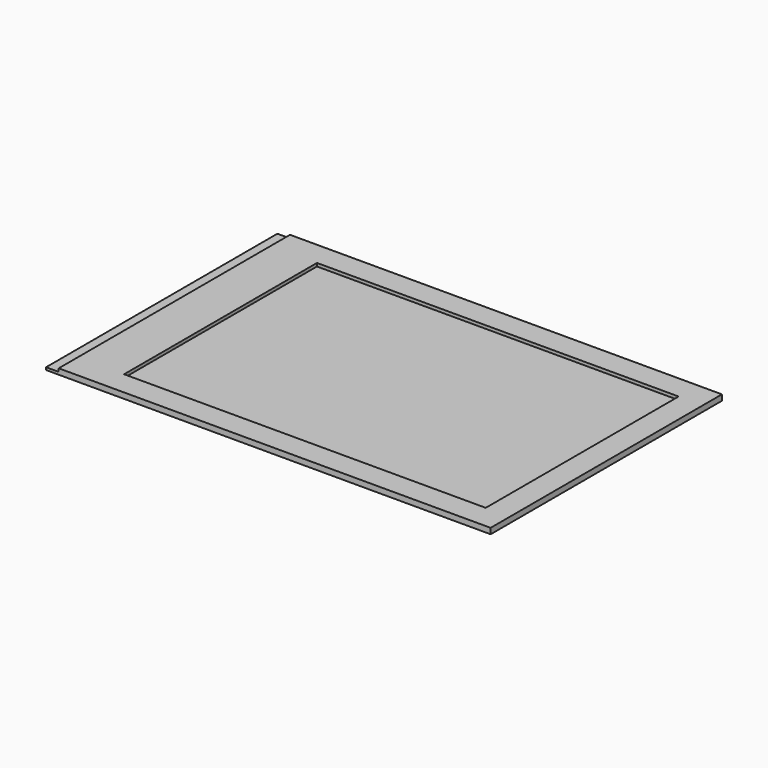
from build123d import *

# Parameters (mm, degrees)
F0_W     = 70.42
F0_H     = 45.8
F1_DEPTH = 0.9
F2_W     = 57.288
F2_H     = 38.192
F3_DEPTH = 0.5
F4_W     = 2
F4_H     = 45.8
F5_DEPTH = 0.5


with BuildPart() as f1:
    # F0 (on Top) → F1 (new body)
    with BuildSketch(Plane.XY):
        Rectangle(F0_W, F0_H)
    extrude(amount=F1_DEPTH)

    # F2 (on face) → F3 (cut)
    with BuildSketch(Plane.XY.offset(0.9)):
        with Locations((2.746, 0.004)):
            Rectangle(F2_W, F2_H)
    extrude(amount=-F3_DEPTH, mode=Mode.SUBTRACT)

    # F4 (on face) → F5 (cut)
    with BuildSketch(Plane.XY.offset(0.9)):
        with Locations((-34.21, 0)):
            Rectangle(F4_W, F4_H)
    extrude(amount=-F5_DEPTH, mode=Mode.SUBTRACT)


solid = f1.part
